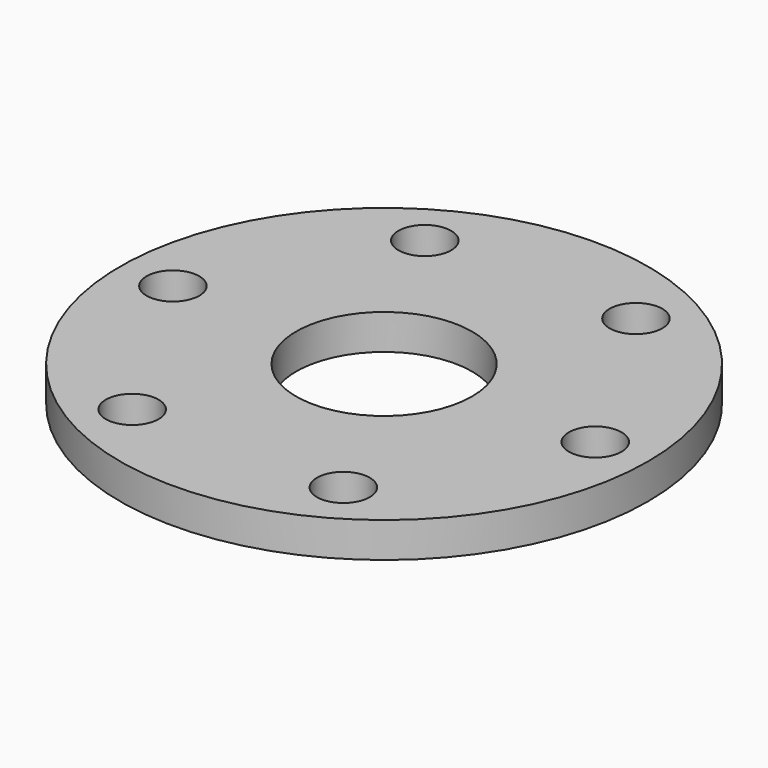
from build123d import *

# Parameters (mm, degrees)
F0_R     = 75
F0_R_2   = 25
F1_DEPTH = 10
F2_R     = 7.5
F3_DEPTH = 25


with BuildPart() as f1:
    # F0 (on Top) → F1 (new body)
    with BuildSketch(Plane.XY):
        Circle(F0_R)
        Circle(F0_R_2, mode=Mode.SUBTRACT)
    extrude(amount=F1_DEPTH)

    # F2 (on Top) → F3 (cut)
    with BuildSketch(Plane.XY):
        with Locations((60, 0)):
            Circle(F2_R)
        with Locations((30, 51.961524)):
            Circle(F2_R)
        with Locations((-30, 51.961524)):
            Circle(F2_R)
        with Locations((-60, 0)):
            Circle(F2_R)
        with Locations((-30, -51.961524)):
            Circle(F2_R)
        with Locations((30, -51.961524)):
            Circle(F2_R)
    extrude(amount=F3_DEPTH, mode=Mode.SUBTRACT)


solid = f1.part
